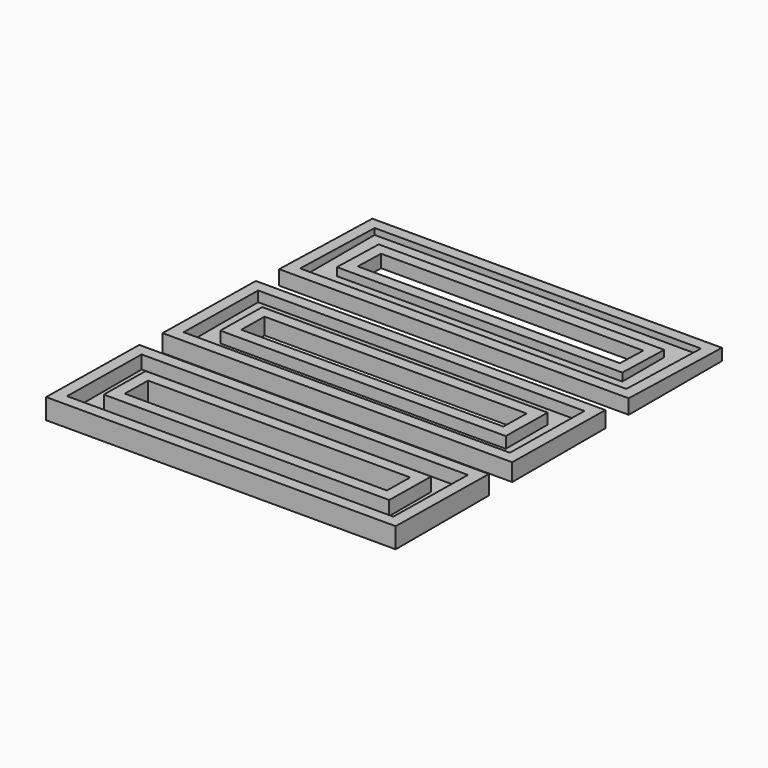
from build123d import *

# Parameters (mm, degrees)
F0_W      = 120
F0_H      = 40
F0_W_2    = 90
F0_H_2    = 10
F1_DEPTH  = 7
F2_W      = 112
F2_H      = 32
F2_W_2    = 98
F2_H_2    = 18
F3_DEPTH  = 5
F4_W      = 112
F4_H      = 32
F4_W_2    = 98
F4_H_2    = 18
F5_DEPTH  = 5
F6_W      = 112
F6_H      = 32
F6_W_2    = 98
F6_H_2    = 18
F7_DEPTH  = 5
F9_DEPTH  = 120.001
F11_DEPTH = 120.001
F13_DEPTH = 120.001


with BuildPart() as f1:
    # F0 (on Top) → F1 (new body)
    with BuildSketch(Plane.XY):
        Rectangle(F0_W, F0_H)
        Rectangle(F0_W_2, F0_H_2, mode=Mode.SUBTRACT)
        with Locations((0, 50)):
            Rectangle(F0_W, F0_H)
        with Locations((0, 50)):
            Rectangle(F0_W_2, F0_H_2, mode=Mode.SUBTRACT)
        with Locations((0, 100)):
            Rectangle(F0_W, F0_H)
        with Locations((0, 100)):
            Rectangle(F0_W_2, F0_H_2, mode=Mode.SUBTRACT)
    extrude(amount=F1_DEPTH)

    # F2 (on face) → F3 (cut)
    with BuildSketch(Plane.XY.offset(7)):
        Rectangle(F2_W, F2_H)
        Rectangle(F2_W_2, F2_H_2, mode=Mode.SUBTRACT)
    extrude(amount=-F3_DEPTH, mode=Mode.SUBTRACT)

    # F4 (on face) → F5 (cut)
    with BuildSketch(Plane.XY.offset(7)):
        with Locations((0, 50)):
            Rectangle(F4_W, F4_H)
        with Locations((0, 50)):
            Rectangle(F4_W_2, F4_H_2, mode=Mode.SUBTRACT)
    extrude(amount=-F5_DEPTH, mode=Mode.SUBTRACT)

    # F6 (on face) → F7 (cut)
    with BuildSketch(Plane.XY.offset(7)):
        with Locations((0, 100)):
            Rectangle(F6_W, F6_H)
        with Locations((0, 100)):
            Rectangle(F6_W_2, F6_H_2, mode=Mode.SUBTRACT)
    extrude(amount=-F7_DEPTH, mode=Mode.SUBTRACT)

    # F8 (on face) → F9 (cut, through all)
    with BuildSketch(Plane.YZ.offset(60)):
        Polygon((20, 7), (-20, 7), (20, 6.5), align=None)
    extrude(amount=-F9_DEPTH, mode=Mode.SUBTRACT)

    # F10 (on face) → F11 (cut, through all)
    with BuildSketch(Plane.YZ.offset(60)):
        Polygon((30, 7), (30, 6), (70, 5.5), (70, 7), align=None)
    extrude(amount=-F11_DEPTH, mode=Mode.SUBTRACT)

    # F12 (on face) → F13 (cut, through all)
    with BuildSketch(Plane.YZ.offset(60)):
        Polygon((80, 7), (80, 5), (120, 4), (120, 7), align=None)
    extrude(amount=-F13_DEPTH, mode=Mode.SUBTRACT)


solid = f1.part
